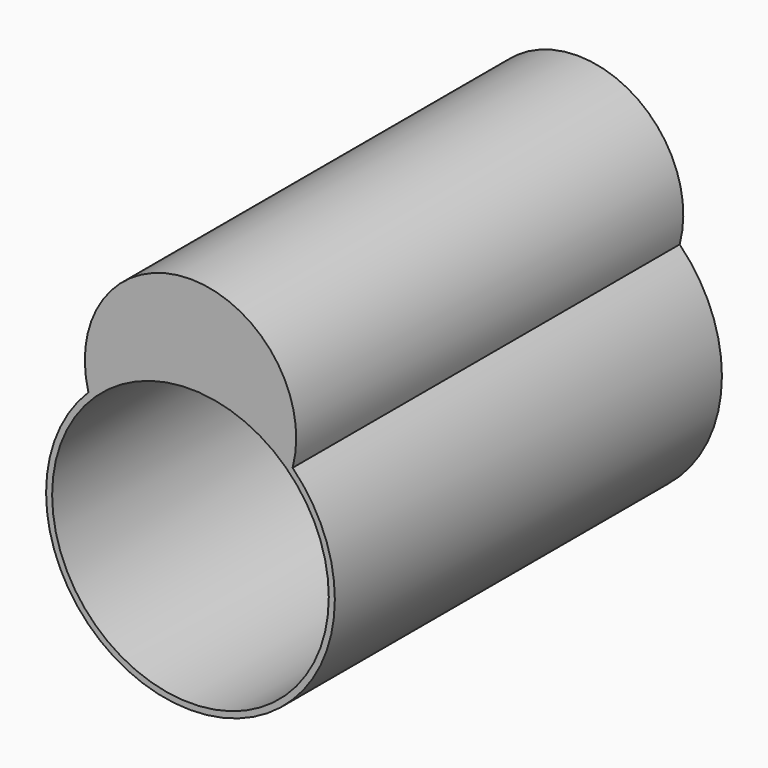
from build123d import *

# Parameters (mm, degrees)
F0_R     = 23.8732414638
F1_DEPTH = 80
F2_R     = 22.8732414638
F3_DEPTH = 80
F5_DEPTH = 80


with BuildPart() as f1:
    # F0 (on Front) → F1 (new body)
    with BuildSketch(Plane.XZ):
        Circle(F0_R)
    extrude(amount=-F1_DEPTH)

    # F2 (on face) → F3 (cut)
    with BuildSketch(Plane.XZ):
        Circle(F2_R)
    extrude(amount=-F3_DEPTH, mode=Mode.SUBTRACT)

    # F4 (on face) → F5 (join)
    with BuildSketch(Plane.XZ):
        with BuildLine():
            ThreePointArc((-16.8741736493, 16.8876855028), (0.0095543232, 23.8732395519), (16.8876855028, 16.8741736493))
            ThreePointArc((16.8876855028, 16.8741736493), (0.0155574816, 38.8732383507), (-16.8741736493, 16.8876855028))
        make_face()
    extrude(amount=-F5_DEPTH)


solid = f1.part
